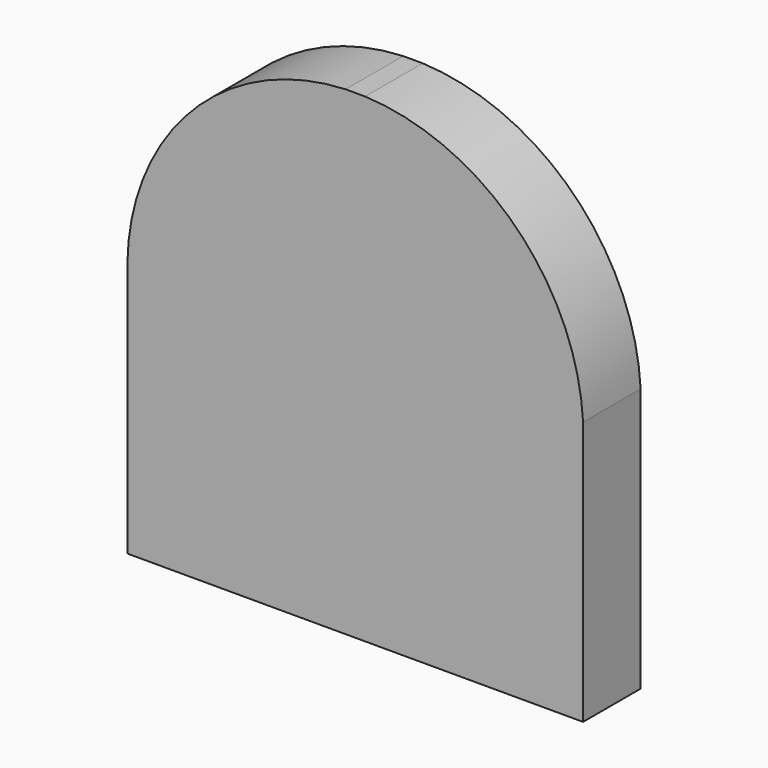
from build123d import *

# Parameters (mm, degrees)
F0_W     = 241.3
F0_H     = 38.1
F1_DEPTH = 254
F3_DEPTH = 38.1


with BuildPart() as f1:
    # F0 (on Top) → F1 (new body)
    with BuildSketch(Plane.XY):
        with Locations((10.0588537753, -129.0830521395)):
            Rectangle(F0_W, F0_H)
    extrude(amount=F1_DEPTH)

    # F2 (on face) → F3 (cut)
    with BuildSketch(Plane.XZ.offset(148.1330521395)):
        with BuildLine():
            ThreePointArc((15.302500107, 254), (95.0856852325, 219.171604803), (130.7088537753, 139.7401022129))
            Line((130.7088537753, 139.7401022129), (130.7088537753, 254))
            Line((130.7088537753, 254), (15.302500107, 254))
        make_face()
        with BuildLine():
            ThreePointArc((-110.5911462247, 135.133523386), (-76.4349382663, 217.5345320826), (4.9704818596, 254))
            Line((4.9704818596, 254), (-110.5911462247, 254))
            Line((-110.5911462247, 254), (-110.5911462247, 135.133523386))
        make_face()
    extrude(amount=-F3_DEPTH, mode=Mode.SUBTRACT)


solid = f1.part
